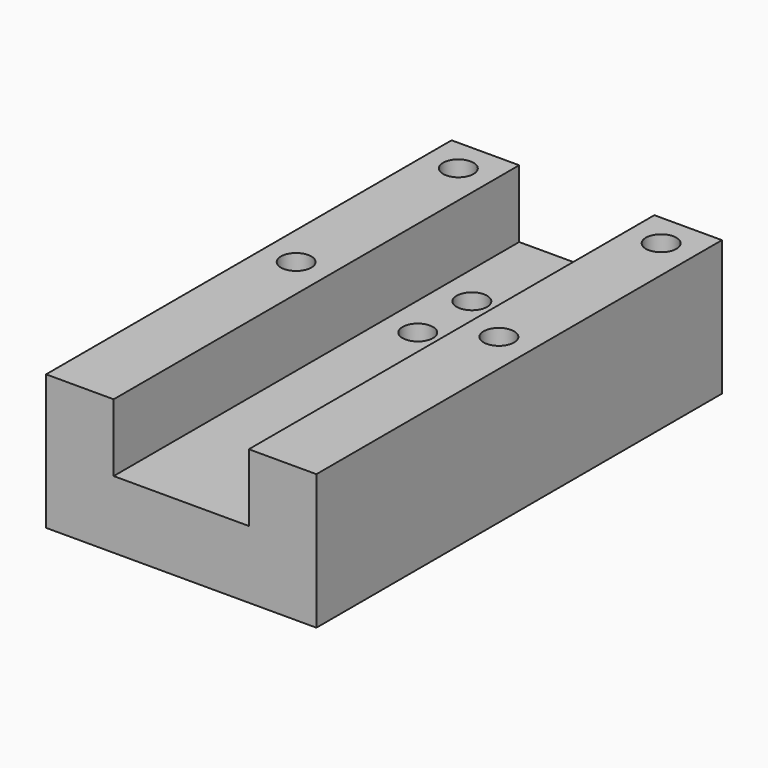
from build123d import *

# Parameters (mm, degrees)
PAD_DEPTH       = 75
SKETCH001_R     = 2.75
POCKET_DEPTH    = 40.001
SKETCH002_R     = 4.5
POCKET001_DEPTH = 6.25
SKETCH003_R     = 4.5
POCKET002_DEPTH = 6.25


with BuildPart() as part:
    # Sketch → Pad (new body, symmetric)
    with BuildSketch(Plane.XZ):
        Polygon((40, 0), (40, -40), (-40, -40), (-40, 0), (-20, 0), (-20, -20), (20, -20), (20, 0), align=None)
    extrude(amount=PAD_DEPTH, both=True)

    # Sketch001 (on Face4 of Pad) → Pocket (cut, through all)
    with BuildSketch(Plane(origin=(0, 0, 0), x_dir=(-1, 0, 0), z_dir=(0, 0, 1))):
        with Locations((-30, -65)):
            Circle(SKETCH001_R)
        with Locations((30, -65)):
            Circle(SKETCH001_R)
        with Locations((-30, -5)):
            Circle(SKETCH001_R)
        with Locations((30, -5)):
            Circle(SKETCH001_R)
        with Locations((-10, -25)):
            Circle(SKETCH001_R)
        with Locations((10, -25)):
            Circle(SKETCH001_R)
        with Locations((-10, -45)):
            Circle(SKETCH001_R)
        with Locations((10, -45)):
            Circle(SKETCH001_R)
    extrude(amount=-POCKET_DEPTH, mode=Mode.SUBTRACT)

    # Sketch002 (on Face16 of Pocket) → Pocket001 (cut)
    with BuildSketch(Plane(origin=(0, 0, 0), x_dir=(-1, 0, 0), z_dir=(0, 0, 1))):
        with Locations((-30, -65)):
            Circle(SKETCH002_R)
        with Locations((-30, -5)):
            Circle(SKETCH002_R)
        with Locations((30, -5)):
            Circle(SKETCH002_R)
        with Locations((30, -65)):
            Circle(SKETCH002_R)
    extrude(amount=-POCKET001_DEPTH, mode=Mode.SUBTRACT)

    # Sketch003 (on Face20 of Pocket001) → Pocket002 (cut)
    with BuildSketch(Plane(origin=(0, 0, -20), x_dir=(-1, 0, 0), z_dir=(0, 0, 1))):
        with Locations((-10, -45)):
            Circle(SKETCH003_R)
        with Locations((-10, -25)):
            Circle(SKETCH003_R)
        with Locations((10, -25)):
            Circle(SKETCH003_R)
        with Locations((10, -45)):
            Circle(SKETCH003_R)
    extrude(amount=-POCKET002_DEPTH, mode=Mode.SUBTRACT)


solid = part.part
